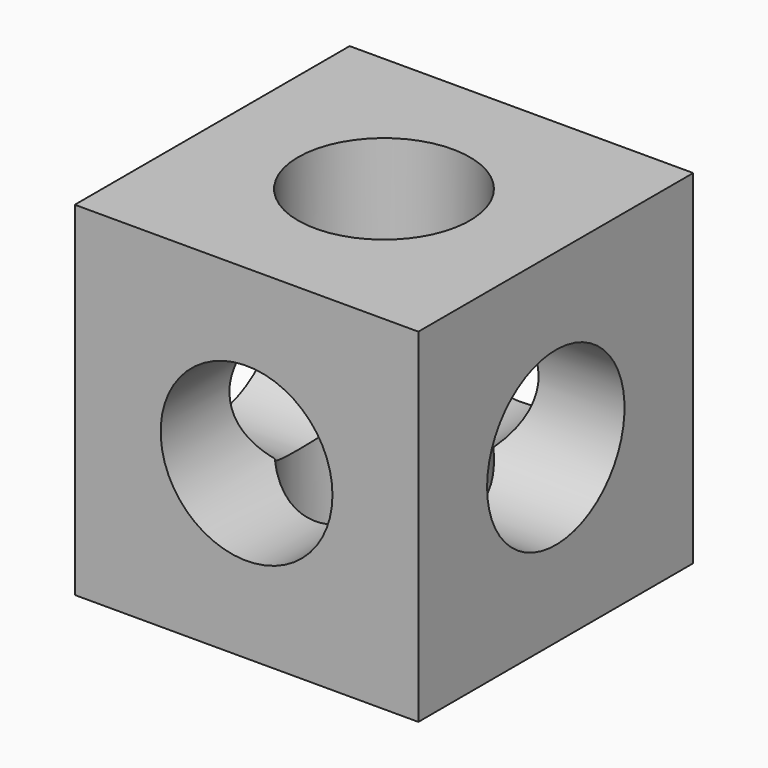
from build123d import *

# Parameters (mm, degrees)
F0_W     = 20
F0_H     = 20
F1_DEPTH = 20
F3_DEPTH = 25
F5_DEPTH = 25
F7_DEPTH = 25


with BuildPart() as f1:
    # F0 (on Top) → F1 (new body)
    with BuildSketch(Plane.XY):
        with Locations((10, 10)):
            Rectangle(F0_W, F0_H)
    extrude(amount=F1_DEPTH)

    # F2 (on face) → F3 (cut)
    with BuildSketch(Plane.XY.offset(20)):
        with BuildLine():
            Line((5, 10), (15, 10))
            ThreePointArc((15, 10), (10, 15), (5, 10))
        make_face()
        with BuildLine():
            ThreePointArc((5, 10), (10, 5), (15, 10))
            Line((15, 10), (5, 10))
        make_face()
    extrude(amount=-F3_DEPTH, mode=Mode.SUBTRACT)

    # F4 (on face) → F5 (cut)
    with BuildSketch(Plane.XZ):
        with BuildLine():
            ThreePointArc((5, 10), (10, 5), (15, 10))
            Line((15, 10), (5, 10))
        make_face()
        with BuildLine():
            Line((5, 10), (15, 10))
            ThreePointArc((15, 10), (10, 15), (5, 10))
        make_face()
    extrude(amount=-F5_DEPTH, mode=Mode.SUBTRACT)

    # F6 (on face) → F7 (cut)
    with BuildSketch(Plane(origin=(0, 0, 0), x_dir=(0, -1, 0), z_dir=(-1, 0, 0))):
        with BuildLine():
            ThreePointArc((-15, 10), (-10, 5), (-5, 10))
            Line((-5, 10), (-15, 10))
        make_face()
        with BuildLine():
            Line((-15, 10), (-5, 10))
            ThreePointArc((-5, 10), (-10, 15), (-15, 10))
        make_face()
    extrude(amount=-F7_DEPTH, mode=Mode.SUBTRACT)


solid = f1.part
